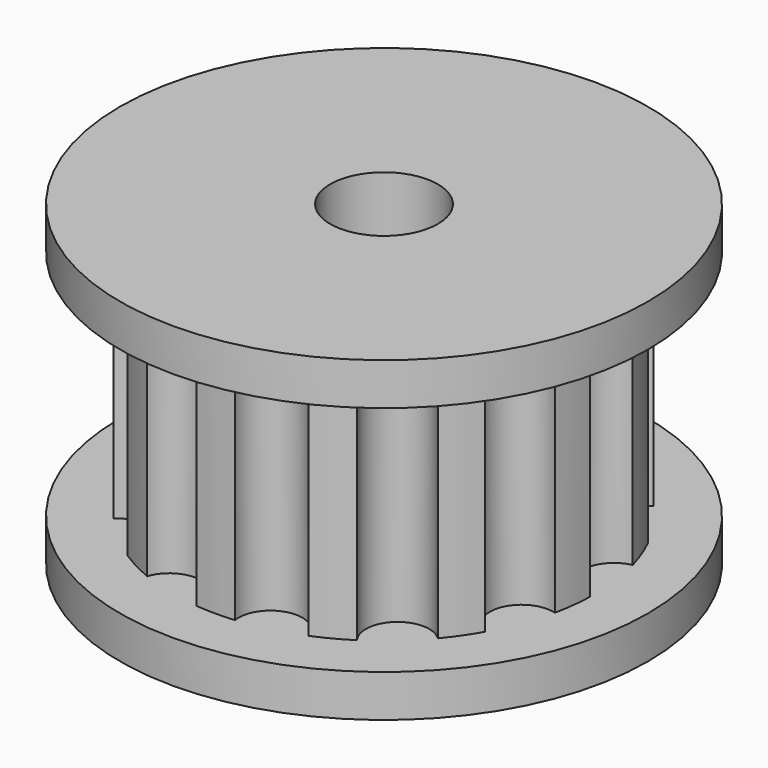
from build123d import *

# Parameters (mm, degrees)
F0_R     = 10
F1_DEPTH = 11
F2_R     = 1.5
F3_DEPTH = 25
F4_R     = 12.5
F5_DEPTH = 2
F6_R     = 12.5
F7_DEPTH = 2
F8_R     = 2.55
F9_DEPTH = 15.001


with BuildPart() as f1:
    # F0 (on Top) → F1 (new body)
    with BuildSketch(Plane.XY):
        Circle(F0_R)
    extrude(amount=F1_DEPTH)

    # F2 (on face) → F3 (cut)
    with BuildSketch(Plane.XY.offset(11)):
        with Locations((0, 10)):
            Circle(F2_R)
        with Locations((-4.647232, 8.85456)):
            Circle(F2_R)
        with Locations((-8.229839, 5.680647)):
            Circle(F2_R)
        with Locations((-9.927089, 1.205367)):
            Circle(F2_R)
        with Locations((-9.350162, -3.546049)):
            Circle(F2_R)
        with Locations((-6.631227, -7.485107)):
            Circle(F2_R)
        with Locations((-2.393157, -9.709418)):
            Circle(F2_R)
        with Locations((2.393157, -9.709418)):
            Circle(F2_R)
        with Locations((6.631227, -7.485107)):
            Circle(F2_R)
        with Locations((9.350162, -3.546049)):
            Circle(F2_R)
        with Locations((9.927089, 1.205367)):
            Circle(F2_R)
        with Locations((8.229839, 5.680647)):
            Circle(F2_R)
        with Locations((4.647232, 8.85456)):
            Circle(F2_R)
    extrude(amount=-F3_DEPTH, mode=Mode.SUBTRACT)

    # F4 (on face) → F5 (join)
    with BuildSketch(Plane(origin=(0, 0, 0), x_dir=(1, 0, 0), z_dir=(0, 0, -1))):
        Circle(F4_R)
    extrude(amount=F5_DEPTH)

    # F6 (on face) → F7 (join)
    with BuildSketch(Plane.XY.offset(11)):
        Circle(F6_R)
    extrude(amount=F7_DEPTH)

    # F8 (on face) → F9 (cut, through all)
    with BuildSketch(Plane(origin=(0, 0, -2), x_dir=(1, 0, 0), z_dir=(0, 0, -1))):
        Circle(F8_R)
    extrude(amount=-F9_DEPTH, mode=Mode.SUBTRACT)


solid = f1.part
